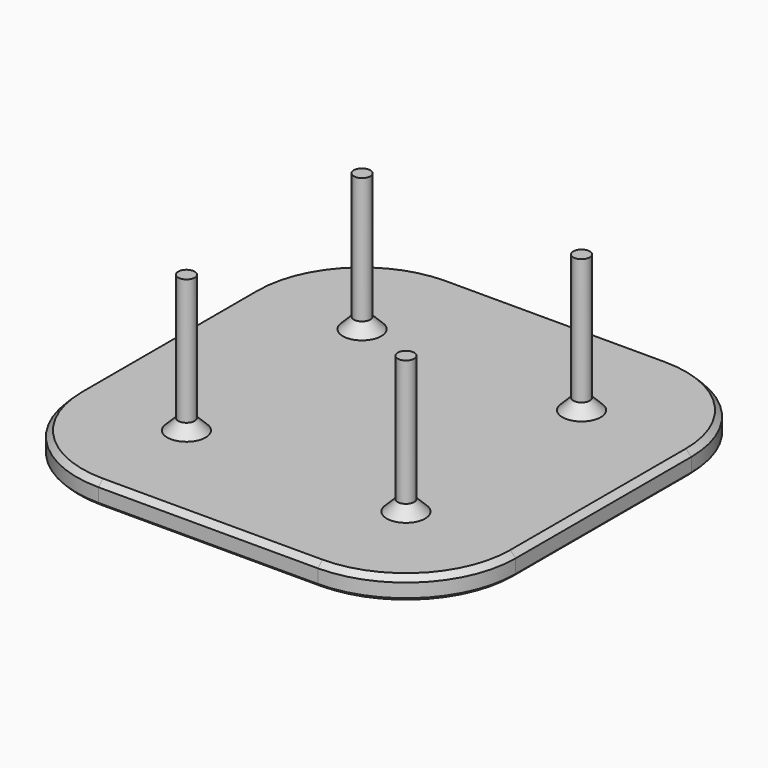
from build123d import *

# Parameters (mm, degrees)
SKETCH_W        = 80
SKETCH_H        = 80
PAD_DEPTH       = 4
SKETCH001_R     = 1.5
PAD001_DEPTH    = 25
FILLET_R        = 20
CHAMFER_SIZE    = 2
CHAMFER001_SIZE = 0.5
CHAMFER002_SIZE = 1


with BuildPart() as part:
    # Sketch → Pad (new body)
    with BuildSketch(Plane.XY):
        with Locations((40, 40)):
            Rectangle(SKETCH_W, SKETCH_H)
    extrude(amount=PAD_DEPTH)

    # Sketch001 (on Face6 of Pad) → Pad001 (join)
    with BuildSketch(Plane.XY.offset(4)):
        with Locations((20, 60)):
            Circle(SKETCH001_R)
        with Locations((60, 60)):
            Circle(SKETCH001_R)
        with Locations((20, 20)):
            Circle(SKETCH001_R)
        with Locations((60, 20)):
            Circle(SKETCH001_R)
    extrude(amount=PAD001_DEPTH)

    # Fillet
    fillet_edges = [part.edges().sort_by_distance(p)[0] for p in [
        (80, 0, 2),
        (80, 80, 2),
        (0, 0, 2),
        (0, 80, 2),
    ]]
    fillet(fillet_edges, radius=FILLET_R)

    # Chamfer
    chamfer_edges = [part.edges().sort_by_distance(p)[0] for p in [
        (18.5, 20, 4),
        (58.5, 20, 4),
        (18.5, 60, 4),
        (58.5, 60, 4),
    ]]
    chamfer(chamfer_edges, length=CHAMFER_SIZE)

    # Chamfer001
    chamfer001_edges = [part.edges().sort_by_distance(p)[0] for p in [
        (40, 80, 0),
        (5.857864, 74.142136, 0),
        (74.142136, 74.142136, 0),
        (0, 40, 0),
        (80, 40, 0),
        (5.857864, 5.857864, 0),
        (74.142136, 5.857864, 0),
        (40, 0, 0),
    ]]
    chamfer(chamfer001_edges, length=CHAMFER001_SIZE)

    # Chamfer002
    chamfer002_edges = [part.edges().sort_by_distance(p)[0] for p in [
        (0, 40, 4),
        (5.857864, 5.857864, 4),
        (40, 0, 4),
        (74.142136, 5.857864, 4),
        (80, 40, 4),
        (74.142136, 74.142136, 4),
        (40, 80, 4),
        (5.857864, 74.142136, 4),
    ]]
    chamfer(chamfer002_edges, length=CHAMFER002_SIZE)


solid = part.part
